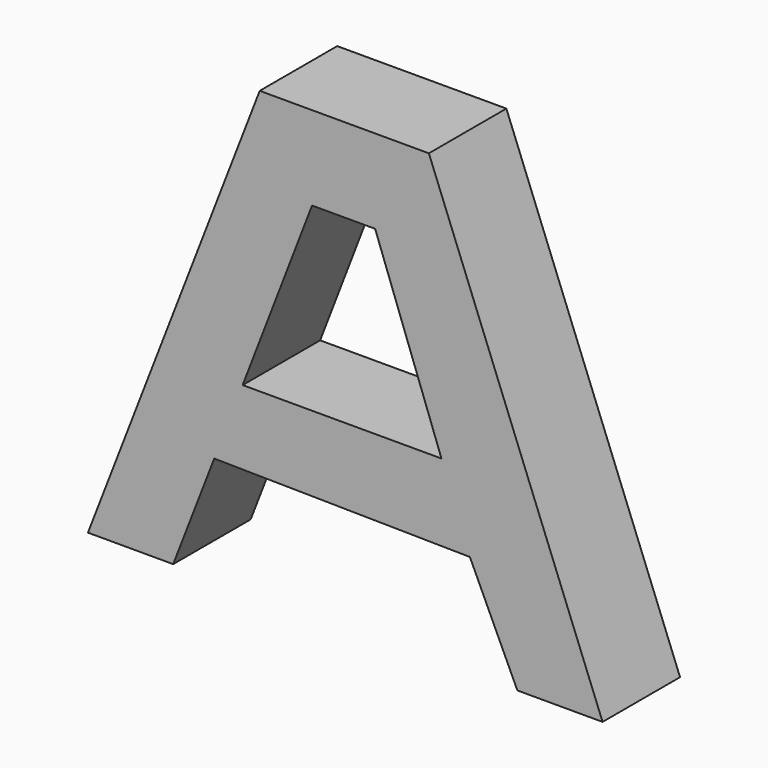
from build123d import *

# Parameters (mm, degrees)
F1_DEPTH = 25.4


with BuildPart() as f1:
    # F0 (on Front) → F1 (new body)
    with BuildSketch(Plane.XZ):
        Polygon((-44.868574, -66.656321), (-34.102677, -38.775525), (32.936819, -39.698683), (45.380164, -66.460343), (67.723832, -66.460343), (22.177352, 49.990933), (0, 49.990933), (-22.180768, 49.990933), (-67.222965, -66.656321), align=None)
        Polygon((8.083392, 27.979204), (25.479969, -19.393079), (-26.656247, -19.393079), (-8.45656, 27.979204), align=None, mode=Mode.SUBTRACT)
    extrude(amount=F1_DEPTH)


solid = f1.part
